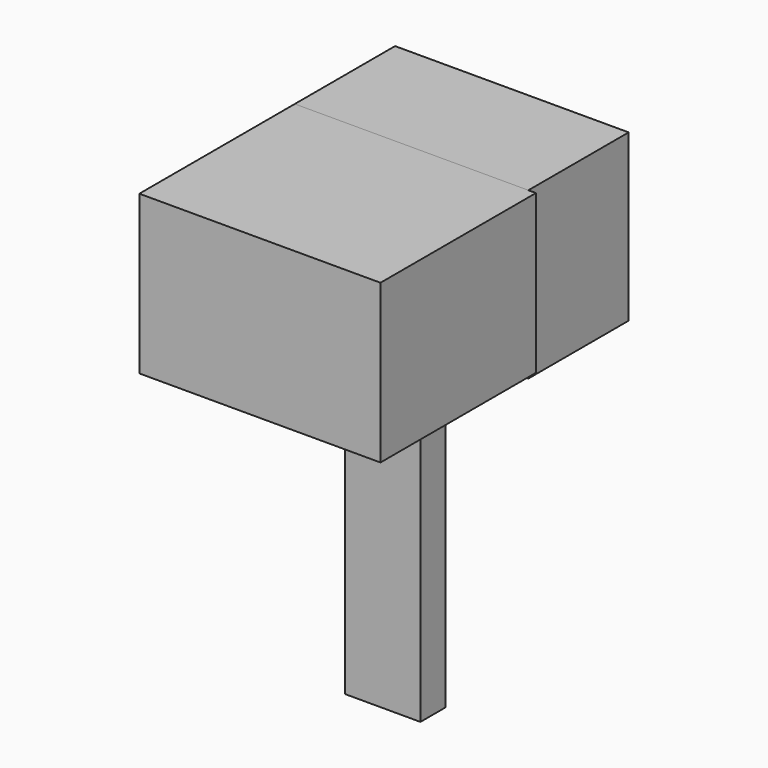
from build123d import *

# Parameters (mm, degrees)
F0_W     = 3.053814
F0_H     = 12.520649
F1_DEPTH = 1.27
F2_W     = 9.772215
F2_H     = 6.413018
F3_DEPTH = 7.874
F4_W     = 9.46683
F4_H     = 6.718399
F5_DEPTH = 5.08


with BuildPart() as f1:
    # F0 (on Front) → F1 (new body)
    with BuildSketch(Plane.XZ):
        with Locations((-56.19023, -38.630783)):
            Rectangle(F0_W, F0_H)
    extrude(amount=F1_DEPTH)


with BuildPart() as f3:
    # F2 (on Front) → F3 (new body)
    with BuildSketch(Plane.XZ):
        with Locations((-55.884847, -28.553189)):
            Rectangle(F2_W, F2_H)
    extrude(amount=F3_DEPTH)

    # F4 (on Front) → F5 (join)
    with BuildSketch(Plane.XZ):
        with Locations((-56.037536, -28.705879)):
            Rectangle(F4_W, F4_H)
    extrude(amount=-F5_DEPTH)


solid = Compound([f1.part, f3.part])
